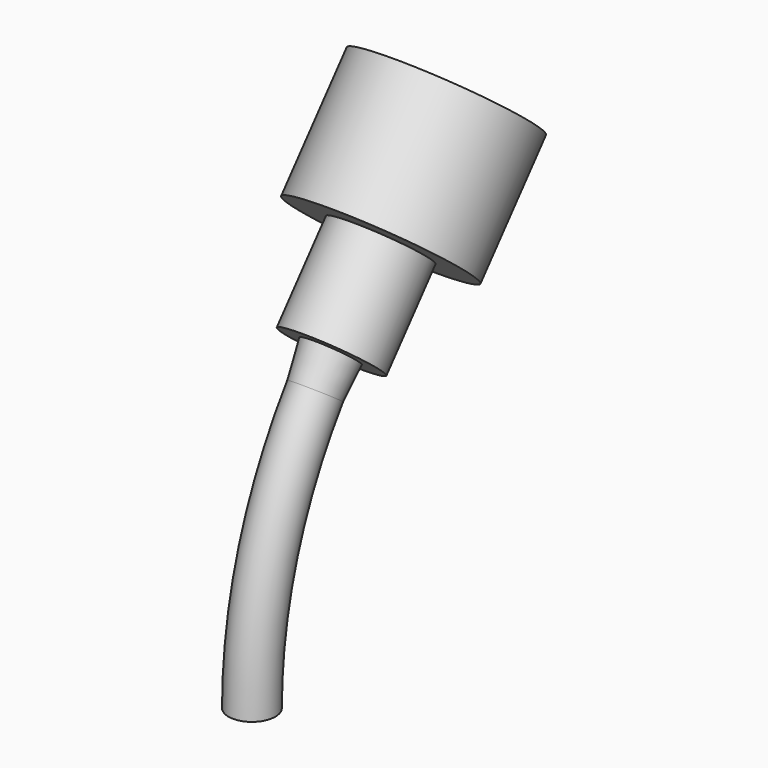
from build123d import *

# Parameters (mm, degrees)
CONE006_ROLL_ANGLE         = -35.5
BOX001027045028_W          = 10
BOX001027045028_H          = 24
BOX001027045028_DEPTH      = 22
BOX001027045028_ROLL_ANGLE = -35.5
BOX001027045027_W          = 10
BOX001027045027_H          = 24
BOX001027045027_DEPTH      = 22
TORUS005_R                 = 1.1
TORUS005_PITCH_ANGLE       = 90
CYLINDER133_R              = 4
CYLINDER133_DEPTH          = 6
CYLINDER133_ROLL_ANGLE     = -40
CYLINDER132_R              = 2.2
CYLINDER132_DEPTH          = 10
CYLINDER132_ROLL_ANGLE     = -40


with BuildPart() as cone006:
    # Cone006 → Cone006 (revolve)
    with BuildSketch(Plane.XZ):
        Polygon((0, 0), (1.1, 0), (1.3, 2), (0, 2), align=None)
    revolve(axis=Axis((0, 0, 0), (0, 0, 1)))


with BuildPart() as cone006_1:
    # Cone006 roll: moved
    add(cone006.part.rotate(Axis((0, 0, 0), (1, 0, 0)), CONE006_ROLL_ANGLE))


with BuildPart() as cone006_2:
    # Cone006 placement: moved
    add(cone006_1.part.moved(Location((0, 3.71769, 11.614059))))


with BuildPart() as cube081:
    # Box001027045028 → Box001027045028 (new body)
    with BuildSketch(Plane.XY):
        with Locations((5, 12)):
            Rectangle(BOX001027045028_W, BOX001027045028_H)
    extrude(amount=BOX001027045028_DEPTH)


with BuildPart() as cube081_1:
    # Box001027045028 roll: moved
    add(cube081.part.rotate(Axis((0, 0, 0), (1, 0, 0)), BOX001027045028_ROLL_ANGLE))


with BuildPart() as cube081_2:
    # Box001027045028 placement: moved
    add(cube081_1.part.moved(Location((-5, 0.461228, 13.936871))))


with BuildPart() as cube080:
    # Box001027045027 → Box001027045027 (new body)
    with BuildSketch(Plane(origin=(-5, -4, 0), x_dir=(1, 0, 0), z_dir=(0, 0, 1))):
        with Locations((5, 12)):
            Rectangle(BOX001027045027_W, BOX001027045027_H)
    extrude(amount=BOX001027045027_DEPTH)


with BuildPart() as cut072:
    # Torus005 → Torus005 (revolve)
    with BuildSketch(Plane.XZ):
        with Locations((20, 0)):
            Circle(TORUS005_R)
    revolve(axis=Axis((0, 0, 0), (0, 0, 1)))


with BuildPart() as cut072_1:
    # Torus005 pitch: moved
    add(cut072.part.rotate(Axis((0, 0, 0), (0, 1, 0)), TORUS005_PITCH_ANGLE))


with BuildPart() as cut072_2:
    # Torus005 placement: moved
    add(cut072_1.part.moved(Location((0, 20, 0))))

    # Common057: intersect Cube080
    add(cube080.part, mode=Mode.INTERSECT)

    # Cut072: cut Cube081
    add(cube081_2.part, mode=Mode.SUBTRACT)


with BuildPart() as cylinder191:
    # Cylinder133 → Cylinder133 (new body)
    with BuildSketch(Plane.XY):
        Circle(CYLINDER133_R)
    extrude(amount=CYLINDER133_DEPTH)


with BuildPart() as cylinder191_1:
    # Cylinder133 roll: moved
    add(cylinder191.part.rotate(Axis((0, 0, 0), (1, 0, 0)), CYLINDER133_ROLL_ANGLE))


with BuildPart() as cylinder191_2:
    # Cylinder133 placement: moved
    add(cylinder191_1.part.moved(Location((0, 7.571655, 16.302952))))


with BuildPart() as obj1:
    # Cylinder132 → Cylinder132 (new body)
    with BuildSketch(Plane.XY):
        Circle(CYLINDER132_R)
    extrude(amount=CYLINDER132_DEPTH)


with BuildPart() as obj1_1:
    # Cylinder132 roll: moved
    add(obj1.part.rotate(Axis((0, 0, 0), (1, 0, 0)), CYLINDER132_ROLL_ANGLE))


with BuildPart() as obj1_2:
    # Cylinder132 placement: moved
    add(obj1_1.part.moved(Location((0, 4.679111, 12.855752))))

    # Fusion112045: union Cone006, Cut072, Cylinder191
    add(cone006_2.part)
    add(cut072_2.part)
    add(cylinder191_2.part)


solid = obj1_2.part
